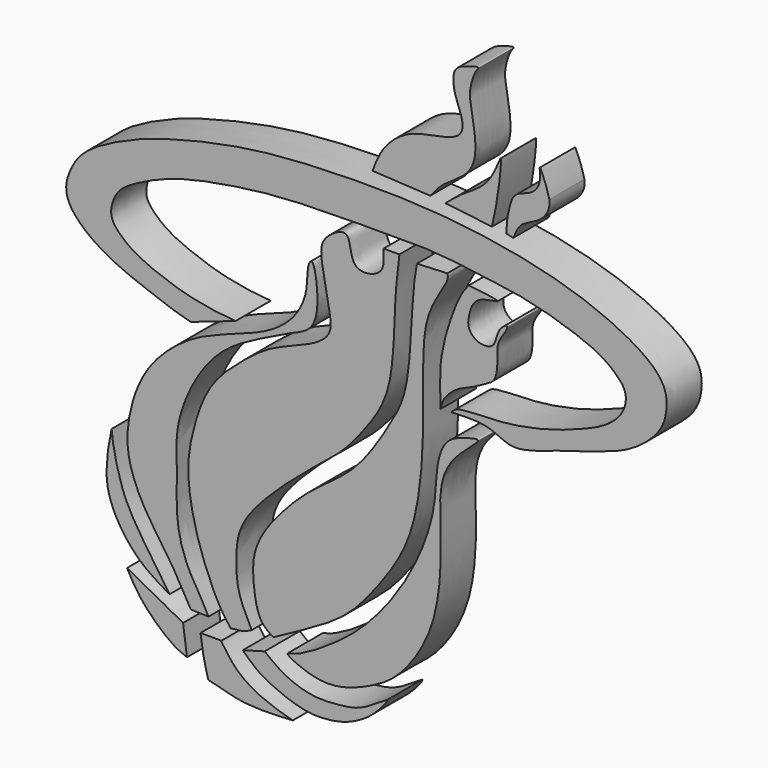
from build123d import *

# Parameters (mm, degrees)
F1_DEPTH = 6


with BuildPart() as f1:
    # F0 (on Front) → F1 (new body)
    with BuildSketch(Plane.XZ):
        with BuildLine():
            Line((-20.7518494657, 0.4578744702), (-14.6103699856, 2.5685693982))
            add(Edge.make_bspline(
                [(-14.6103699856, 2.5685693982), (-14.8841192451, 2.6023924129), (-16.3543269507, 2.6686361664), (-21.6991254555, 3.4257639486), (-27.8430711683, 5.8504730296), (-29.8732971093, 7.3254548775), (-31.8703874891, 9.2516888266), (-31.4874633085, 11.5469655322), (-30.5100402873, 13.3802300922), (-27.6518782642, 15.094946108), (-22.6050956604, 17.3553559564), (-14.5653587321, 18.833000634), (-6.3592966196, 19.8060742843), (4.9070618498, 19.7631742485), (11.4696097858, 19.7389407115)],
                knots=[0, 0, 0, 0, 0.0459514315, 0.1362307575, 0.2345457716, 0.295320636, 0.3552266704, 0.4103433742, 0.4637881166, 0.531131587, 0.6210378052, 0.7284092375, 0.83809268, 1, 1, 1, 1], degree=3))
            add(Edge.make_bspline(
                [(11.4696097858, 19.7389407115), (12.4560465672, 19.684085861), (14.6073556742, 19.5644530894), (18.9274754621, 18.9041354869), (22.6813159867, 18.5383234087), (26.6230197838, 17.7496665902), (30.5137685915, 16.6381609924), (35.1020571703, 14.9207297585), (37.2082507347, 13.2625630215), (38.8617199151, 11.5663261003), (38.6827257776, 8.990895199), (36.4896279183, 6.6374137595), (33.1345707424, 5.0662847925), (27.7006689694, 3.1006527608), (21.2720026484, 1.9723701361), (15.6952076838, 2.1444746695), (15.0810921132, 1.4001356989), (14.8910206989, 1.1747513769)],
                knots=[0, 0, 0, 0, 0.0616688387, 0.1345135209, 0.2029866539, 0.2721004722, 0.3435754612, 0.4204376069, 0.4777501946, 0.5290754256, 0.5817647776, 0.6424951873, 0.7094534546, 0.7929856185, 0.8856278313, 0.9651541377, 1, 1, 1, 1], degree=3))
            add(Edge.make_bspline(
                [(27.0536653697, 0.4578744702), (26.3382513451, 0.2588656778), (25.2741740432, 0.0084043789), (24.7347122368, -0.147455119), (22.9843445382, -0.370653083), (21.2155771251, 0.5039236872), (19.0054698868, 1.3719866867), (16.4051606155, 1.2434257799), (14.8910206989, 1.1747513769)],
                knots=[0, 0, 0, 0, 0.1627079698, 0.2528983782, 0.4052699726, 0.573604004, 0.7553181658, 1, 1, 1, 1], degree=3))
            add(Edge.make_bspline(
                [(27.0536653697, 0.4578744702), (27.3738893615, 0.6059271476), (27.9609831587, 0.7286444046), (28.7809857012, 1.1225513721), (31.7758550339, 1.9670329303), (35.3559728528, 3.0795264203), (39.7679857435, 4.6249254972), (43.4463944711, 7.8978206452), (44.2725948496, 10.4038157943), (44.4045481747, 13.2352786172), (42.1398145223, 16.589415441), (31.6935987278, 21.8729254217), (14.5948423426, 24.8020763905), (0.1654395144, 24.9051116954), (-12.8433184729, 24.2427836932), (-24.0621894134, 21.5418800982), (-29.2500125109, 19.6857519771), (-35.0893802286, 16.7947474584), (-37.2695548544, 13.694539419), (-38.4888207725, 9.5463678885), (-33.0476762787, 4.6641041177), (-25.8644533659, 2.1535133725), (-22.5265274486, 0.8663317337), (-20.7518494657, 0.4578744702)],
                knots=[0, 0, 0, 0, 0.0193222706, 0.0380015419, 0.0726513382, 0.112402865, 0.1561997086, 0.1999534254, 0.2320155072, 0.2641405139, 0.3018528575, 0.369183607, 0.4540233792, 0.5307680067, 0.6038275813, 0.6710567602, 0.7189013998, 0.7688765335, 0.8076487935, 0.8457248977, 0.8973931587, 0.9534780841, 1, 1, 1, 1], degree=3))
        make_face()
    extrude(amount=F1_DEPTH)


with BuildPart() as f1b:
    # F0 (on Front) → F1, piece 2 (new body)
    with BuildSketch(Plane.XZ):
        with BuildLine():
            add(Edge.make_bspline(
                [(-23.646203801, -33.2536809146), (-24.2127469641, -32.4068578831), (-25.4961293977, -30.488561319), (-28.5570863075, -26.0527152186), (-30.2451176449, -22.6344596876), (-31.3352426028, -18.172818409), (-31.4997943175, -16.5835859354), (-31.567722559, -15.9275382757)],
                knots=[0, 0, 0, 0, 0.1870681959, 0.4237630108, 0.6303018869, 0.8473857123, 1, 1, 1, 1], degree=3))
            add(Edge.make_bspline(
                [(-31.567722559, -15.9275382757), (-31.9022845919, -17.3315851861), (-32.2866920187, -19.9715440278), (-32.2906690951, -23.1867575615), (-30.9366164884, -26.7997839645), (-27.7661160487, -30.8907156784), (-24.9738523577, -32.4773720499), (-23.646203801, -33.2536809146)],
                knots=[0, 0, 0, 0, 0.199875765, 0.3735876132, 0.5640136988, 0.7861942036, 1, 1, 1, 1], degree=3))
        make_face()
    extrude(amount=F1_DEPTH)


with BuildPart() as f1c:
    # F0 (on Front) → F1, piece 3 (new body)
    with BuildSketch(Plane.XZ):
        with BuildLine():
            add(Edge.make_bspline(
                [(-21.2632447615, -40.0547913293), (-21.8000186053, -39.8401614497), (-23.1772881113, -39.3774442508), (-27.3095664917, -35.799694193), (-28.787805511, -33.2424524925), (-29.4560633396, -31.9721623336)],
                knots=[0, 0, 0, 0, 0.2392285951, 0.6350775237, 1, 1, 1, 1], degree=3))
            add(Edge.make_bspline(
                [(-21.2632447615, -40.0547913293), (-21.4460860568, -38.7089221756), (-21.61717731, -37.4395598779), (-21.8000186053, -36.0936907242)],
                knots=[0, 0, 0, 0, 3.9973046123, 3.9973046123, 3.9973046123, 3.9973046123], degree=3))
            add(Edge.make_bspline(
                [(-21.8000186053, -36.0936907242), (-22.8145243824, -35.6213997534), (-24.3125765388, -34.6385952304), (-25.1350449054, -34.3897208423), (-27.678429951, -32.8505819505), (-29.4560633396, -31.9721623336)],
                knots=[0, 0, 0, 0, 0.3492635804, 0.5404114097, 1, 1, 1, 1], degree=3))
        make_face()
    extrude(amount=F1_DEPTH)


with BuildPart() as f1d:
    # F0 (on Front) → F1, piece 4 (new body)
    with BuildSketch(Plane.XZ):
        with BuildLine():
            add(Edge.make_bspline(
                [(-18.3485150337, -41.8259464204), (-17.9357085025, -41.9185336738), (-16.8689703165, -42.1596833502), (-13.2595076107, -43.2872329919), (-9.1843102245, -43.0770804928), (-6.801680982, -42.9528572775)],
                knots=[0, 0, 0, 0, 0.209390115, 0.5438337513, 1, 1, 1, 1], degree=3))
            add(Edge.make_bspline(
                [(-6.801680982, -42.9528572775), (-7.3322526921, -42.837298675), (-8.5627294195, -42.4723305262), (-12.1302968111, -41.2408067436), (-14.9042130001, -39.1068101539), (-16.1108445301, -37.2151671531), (-16.5443051064, -36.706283685), (-16.5556199179, -36.5292694464)],
                knots=[0, 0, 0, 0, 0.1774483703, 0.4361373505, 0.6898878203, 0.8873624898, 1, 1, 1, 1], degree=3))
            Line((-16.5556199179, -36.5292694464), (-19.4155257195, -36.5292694464))
            add(Edge.make_bspline(
                [(-19.4155257195, -36.5292694464), (-19.3415497774, -37.1042772858), (-19.1941479966, -38.4090757032), (-18.6707918937, -40.6971304211), (-18.441469805, -41.5026312361), (-18.3485150337, -41.8259464204)],
                knots=[0, 0, 0, 0, 0.3471096828, 0.7320687593, 1, 1, 1, 1], degree=3))
        make_face()
    extrude(amount=F1_DEPTH)


with BuildPart() as f1e:
    # F0 (on Front) → F1, piece 5 (new body)
    with BuildSketch(Plane.XZ):
        with BuildLine():
            add(Edge.make_bspline(
                [(6.1231267955, -36.2593535786), (6.0757432987, -36.4837972858), (5.7346709505, -37.0419729733), (3.5867476431, -39.4036533609), (0.7040879376, -40.7505372906), (-1.0511903227, -41.2025431321), (-4.756009045, -41.6441360588), (-9.5282101989, -39.7744930079), (-11.7996301538, -38.5071597455), (-13.0770380824, -37.2486272237), (-13.6441466131, -36.7267536053)],
                knots=[0, 0, 0, 0, 0.0675631593, 0.2027640318, 0.3388663665, 0.4400573878, 0.5846969976, 0.7568446087, 0.8808530666, 1, 1, 1, 1], degree=3))
            add(Edge.make_bspline(
                [(6.1231267955, -36.2593535786), (5.4892857384, -36.6826372735), (4.1433798458, -37.5500688955), (1.9404117335, -38.7429762164), (-0.5234648419, -39.0521286951), (-4.1186942636, -39.3382676156), (-8.1093085934, -37.9187252071), (-9.9719409301, -36.4329764737), (-10.6460256502, -35.8906947076)],
                knots=[0, 0, 0, 0, 0.1480397645, 0.2985962994, 0.4489636324, 0.6308695319, 0.8295179973, 1, 1, 1, 1], degree=3))
            Line((-10.6460256502, -35.8906947076), (-13.6441466131, -36.7267536053))
        make_face()
    extrude(amount=F1_DEPTH)


with BuildPart() as f1f:
    # F0 (on Front) → F1, piece 6 (new body)
    with BuildSketch(Plane.XZ):
        with BuildLine():
            add(Edge.make_bspline(
                [(17.2574445605, 17.2223933041), (16.9071011847, 16.7825350712), (16.1020726236, 15.7993938794), (15.0280930707, 13.1562814056), (13.8911769999, 9.7247110362), (13.1850867416, 5.8446159636), (13.3548884401, 2.6798248455), (13.4145831689, 1.1047881326)],
                knots=[0, 0, 0, 0, 0.1464329796, 0.3309968353, 0.5410429339, 0.7600112733, 1, 1, 1, 1], degree=3))
            add(Edge.make_bspline(
                [(13.4145831689, 1.1047881326), (13.4888841239, 1.3896554109), (13.5507191944, 2.3026305565), (15.4067861693, 4.2780456578), (17.6125453693, 5.0078552015), (19.6310150779, 6.1747652361), (21.0110512287, 6.8976585793), (21.2423007873, 9.5955667352), (20.9947185224, 11.6880075016), (22.4231597412, 13.3346299998), (22.6242131352, 14.3025922297), (21.2333498732, 13.3329659468), (20.9479661355, 11.6096660111), (20.3891340201, 10.7356067667), (18.5649342988, 10.519963681), (16.9644779666, 11.9878437374), (17.3167375392, 13.9342868369), (18.1011810692, 16.3199642033), (22.9697142767, 16.5514419831), (19.2780371532, 16.9868545535), (17.2574445605, 17.2223933041)],
                knots=[0, 0, 0, 0, 0.0425028292, 0.1073186188, 0.1705089211, 0.2317194478, 0.2799034021, 0.3437359613, 0.4034678736, 0.4624806647, 0.4912591843, 0.5350258532, 0.5897810929, 0.6287891488, 0.6802654357, 0.7358234943, 0.7907060176, 0.8538133542, 0.9191222008, 1, 1, 1, 1], degree=3))
        make_face()
    extrude(amount=F1_DEPTH)


with BuildPart() as f1g:
    # F0 (on Front) → F1, piece 7 (new body)
    with BuildSketch(Plane.XZ):
        with BuildLine():
            add(Edge.make_bspline(
                [(-7.5294133276, -35.1556856185), (-7.5082959887, -35.3476014643), (-5.1893721586, -36.550927686), (-0.9399194116, -37.4368000421), (4.544702687, -35.114868468), (8.2142708812, -32.6819910489), (13.2737999563, -25.1988443364), (13.5556095572, -14.415987967), (13.1080270545, -8.9091142414), (14.4828905394, -4.2210428969), (19.9038927037, -0.4305959222), (16.3852664386, -1.3891681864), (14.0191662731, -2.2486308035), (12.6849988257, -5.8898501909), (12.8681848013, -11.3508499484), (9.9060649971, -19.4908630721), (5.1106731615, -26.4008422245), (0.1466053415, -31.1847949538), (-6.1496183693, -35.0331069491), (-7.5428853211, -35.0332512034), (-7.5294133276, -35.1556856185)],
                knots=[0, 0, 0, 0, 0.0369995927, 0.0903734521, 0.1491699942, 0.2009528751, 0.2737546643, 0.3550150683, 0.4127590801, 0.4686199998, 0.5207587526, 0.5543407642, 0.5948582632, 0.6405502562, 0.6984067044, 0.7710791505, 0.8426108935, 0.9097318168, 0.9763957818, 1, 1, 1, 1], degree=3))
        make_face()
    extrude(amount=F1_DEPTH)


with BuildPart() as f1h:
    # F0 (on Front) → F1, piece 8 (new body)
    with BuildSketch(Plane.XZ):
        with BuildLine():
            add(Edge.make_bspline(
                [(-15.2804461487, -34.6279416595), (-14.7705211307, -34.519199183), (-13.6568335647, -34.5822630993), (-12.8494216194, -34.1034353261), (-12.4213337485, -33.909913209)],
                knots=[0, 0, 0, 0, 0.5174896191, 1, 1, 1, 1], degree=3))
            add(Edge.make_bspline(
                [(-12.4213337485, -33.909913209), (-12.6077589636, -33.5443193056), (-13.0478390788, -32.6921260598), (-14.4148733867, -29.7676049747), (-14.5708030023, -26.4025540296), (-14.4332658882, -21.9867449741), (-10.3844642533, -17.0131674411), (-4.1087135078, -11.5742381962), (0.0850306348, -8.4950374544), (3.8899319829, -3.7191980834), (7.162578603, 1.6760528845), (7.0124058165, 13.2114451168), (7.6857012202, 16.5065598125), (7.7703755083, 17.8565699301)],
                knots=[0, 0, 0, 0, 0.0461748111, 0.1168385657, 0.1910846881, 0.2725001932, 0.3731717407, 0.4891365149, 0.5812309354, 0.6773461921, 0.7789106219, 0.9134363469, 1, 1, 1, 1], degree=3))
            Line((7.7703755083, 17.8565699301), (5.6033297442, 17.8565699301))
            add(Edge.make_bspline(
                [(5.6033297442, 17.8565699301), (5.5974406244, 17.5390097513), (5.5842552221, 16.9489113219), (5.7419986039, 14.4182606329), (0.7699418735, 13.446430871), (1.3299276975, 18.9760517964), (-2.015052735, 17.1381806022), (-3.2627518475, 15.2605624542), (-2.4075889227, 11.4201105326), (-1.8888224398, 8.2740535104), (-1.2375352359, 5.0983928771), (-4.5549385513, 2.8203238719), (-9.7419210007, 1.1975160994), (-13.7655701766, -1.9302871668), (-18.3315132005, -5.9710901751), (-20.4425673669, -12.0549703683), (-21.5032151937, -17.64303127), (-20.0103141213, -25.5210467162), (-17.0916022516, -32.3260554907), (-15.7795595686, -33.9869303508), (-15.2804461487, -34.6279416595)],
                knots=[0, 0, 0, 0, 0.027010484, 0.0676545948, 0.1188240063, 0.1714105546, 0.2147523044, 0.2570284929, 0.3110870337, 0.3629181417, 0.4097820153, 0.4624459083, 0.5282853255, 0.5918226685, 0.6604631876, 0.73061638, 0.7972283794, 0.8773027312, 0.9535006931, 1, 1, 1, 1], degree=3))
        make_face()
    extrude(amount=F1_DEPTH)


with BuildPart() as f1i:
    # F0 (on Front) → F1, piece 9 (new body)
    with BuildSketch(Plane.XZ):
        with BuildLine():
            Line((-20.7288041711, -34.1367051005), (-18.331296742, -34.2082716525))
            add(Edge.make_bspline(
                [(-18.331296742, -34.2082716525), (-18.653289075, -33.5518413763), (-19.32343556, -32.1811553359), (-20.8452470393, -29.9908211048), (-22.9365417438, -25.0098502098), (-22.5167359304, -17.7736838458), (-22.9094162197, -13.4678785608), (-21.2205247671, -7.6582575011), (-16.9997031397, -1.3586543475), (-11.034079587, 1.6420069239), (-7.3277613788, 3.5366220223), (-4.1288541697, 4.6810380009), (-3.0845346564, 8.0977966045), (-3.8932312781, 13.7870152344), (-4.9024064669, 12.4245020332), (-4.6373533342, 9.2904098584), (-6.4645859197, 5.3106906067), (-10.5462327159, 2.3840445474), (-15.9687240849, 0.5757237044), (-21.1619446356, -1.4779559791), (-26.0211306457, -5.7827342947), (-27.9757349214, -9.4792819802), (-28.8939239163, -12.1741690746), (-29.9596329228, -17.5781693448), (-27.4187072795, -23.9610272891), (-23.6992586281, -28.7521723595), (-21.7187249248, -32.3422791005), (-20.7288041711, -34.1367051005)],
                knots=[0, 0, 0, 0, 0.0277179379, 0.0578500109, 0.1010906555, 0.1514217317, 0.1903625436, 0.2354549365, 0.28694617, 0.3350310101, 0.3733499633, 0.4057111028, 0.4416991778, 0.4821368451, 0.4971853853, 0.5302121548, 0.5689440006, 0.6103773925, 0.6550057062, 0.6996351098, 0.7470375993, 0.7845873415, 0.8158202009, 0.8587174757, 0.9074040671, 0.9537117832, 1, 1, 1, 1], degree=3))
        make_face()
    extrude(amount=F1_DEPTH)


with BuildPart() as f1j:
    # F0 (on Front) → F1, piece 10 (new body)
    with BuildSketch(Plane.XZ):
        with BuildLine():
            add(Edge.make_bspline(
                [(14.0546822122, 26.0725097009), (14.7333724554, 26.5540129188), (16.0527212075, 27.983658143), (20.2738923701, 29.9683248423), (21.5970121861, 34.3334518907), (21.7058368895, 33.1981842841), (21.2657486603, 28.8459866022), (20.4097698577, 25.3037270484)],
                knots=[0, 0, 0, 0, 0.1779849187, 0.4199737601, 0.6237380618, 0.6840895151, 1, 1, 1, 1], degree=3))
            Line((14.0546822122, 26.0725097009), (20.4097698577, 25.3037270484))
        make_face()
    extrude(amount=F1_DEPTH)


with BuildPart() as f1k:
    # F0 (on Front) → F1, piece 11 (new body)
    with BuildSketch(Plane.XZ):
        with BuildLine():
            Line((4.0961011181, 26.7201916444), (11.9836212386, 26.2883686634))
            add(Edge.make_bspline(
                [(11.9836212386, 26.2883686634), (12.48312133, 26.9060904787), (13.5815442416, 28.3686278571), (17.1117500367, 30.2016486841), (18.5948395599, 33.4517150042), (17.5449277531, 38.7001232214), (17.2662705949, 40.7575703535), (18.0406467241, 43.2334462973), (18.8959935891, 44.0673377914), (17.0373716175, 43.5212877672), (14.892556672, 42.8299275765), (15.2295425243, 39.5315986413), (16.2831288723, 37.5685099401), (16.6947376563, 34.6472284626), (12.7499322389, 33.6510851264), (8.8084806665, 33.0966018408), (5.380620222, 30.108592594), (4.512323708, 27.8311754208), (4.0961011181, 26.7201916444)],
                knots=[0, 0, 0, 0, 0.0598574301, 0.1325972382, 0.201605561, 0.2863139526, 0.3422583462, 0.401811893, 0.431156221, 0.4748666468, 0.5292716172, 0.5916972312, 0.6500996432, 0.7064453623, 0.7758678077, 0.8522190813, 0.929299523, 1, 1, 1, 1], degree=3))
        make_face()
    extrude(amount=F1_DEPTH)


with BuildPart() as f1l:
    # F0 (on Front) → F1, piece 12 (new body)
    with BuildSketch(Plane.XZ):
        with BuildLine():
            Line((22.3656669259, 25.1255687326), (23.318991065, 24.9012578279))
            add(Edge.make_bspline(
                [(23.318991065, 24.9012578279), (23.4646735389, 25.2140603286), (23.7733469751, 25.8811099497), (24.4228691423, 27.1706124138), (27.4428626356, 28.0919682741), (28.4220762551, 30.116500333), (28.2538440078, 31.1259012669)],
                knots=[0, 0, 0, 0, 0.1828379863, 0.3877587616, 0.6958244099, 1, 1, 1, 1], degree=3))
            add(Edge.make_bspline(
                [(28.2538440078, 31.1259012669), (28.1112164203, 31.6775220287), (27.8336361156, 32.7510805308), (26.6976137199, 35.3910690674), (27.2644644432, 32.7276193451), (25.8515738726, 30.8478225326), (23.3648928546, 30.5520406095), (22.7341419451, 28.1790755917), (22.4415853164, 26.7833235988), (22.3913639347, 25.6866889185), (22.3656669259, 25.1255687326)],
                knots=[0, 0, 0, 0, 0.1274287596, 0.2480005064, 0.3607602243, 0.4997946457, 0.6367184994, 0.7713388973, 0.8829999062, 1, 1, 1, 1], degree=3))
        make_face()
    extrude(amount=F1_DEPTH)


with BuildPart() as f1m:
    # F0 (on Front) → F1, piece 13 (new body)
    with BuildSketch(Plane.XZ):
        with BuildLine():
            add(Edge.make_bspline(
                [(-9.4564655731, -33.8052770582), (-10.0439674287, -33.4445740404), (-11.4279134288, -32.6108119612), (-12.2393412573, -28.6269138166), (-12.386238701, -23.9087885154), (-9.1684355784, -19.0990178651), (-4.1429634162, -14.0224253813), (2.1146547712, -10.2341636978), (6.7739958323, -2.5568250105), (9.2583677143, 2.1493253601), (9.4747058665, 13.8080154532), (9.9845247942, 16.5298837753), (10.1583987028, 17.5198985594)],
                knots=[0, 0, 0, 0, 0.060708084, 0.1425815902, 0.2327362459, 0.3314125759, 0.4428481601, 0.5569823336, 0.6787472268, 0.778815079, 0.9193826565, 1, 1, 1, 1], degree=3))
            add(Edge.make_bspline(
                [(-9.4564655731, -33.8052770582), (-8.3781746198, -33.2135607426), (-5.8723604932, -31.8514949913), (0.3595964827, -28.4781210132), (4.3530812408, -23.7298753976), (7.9949380145, -18.6115994761), (10.0946501825, -13.1923293377), (11.1964935916, -4.5187213648), (10.8648035147, 5.4095445488), (11.2797143646, 12.4674022965), (14.5639179756, 16.7108445661), (14.3710228913, 17.5198985594), (14.3211498313, 17.7158842052)],
                knots=[0, 0, 0, 0, 0.0837887773, 0.1942060374, 0.2993668067, 0.4026577627, 0.5024086672, 0.6258097972, 0.7589194535, 0.8715064447, 0.9630303227, 1, 1, 1, 1], degree=3))
            Line((14.3211498313, 17.7158842052), (10.1583987028, 17.5198985594))
        make_face()
    extrude(amount=F1_DEPTH)


solid = Compound([f1.part, f1b.part, f1c.part, f1d.part, f1e.part, f1f.part, f1g.part, f1h.part, f1i.part, f1j.part, f1k.part, f1l.part, f1m.part])
